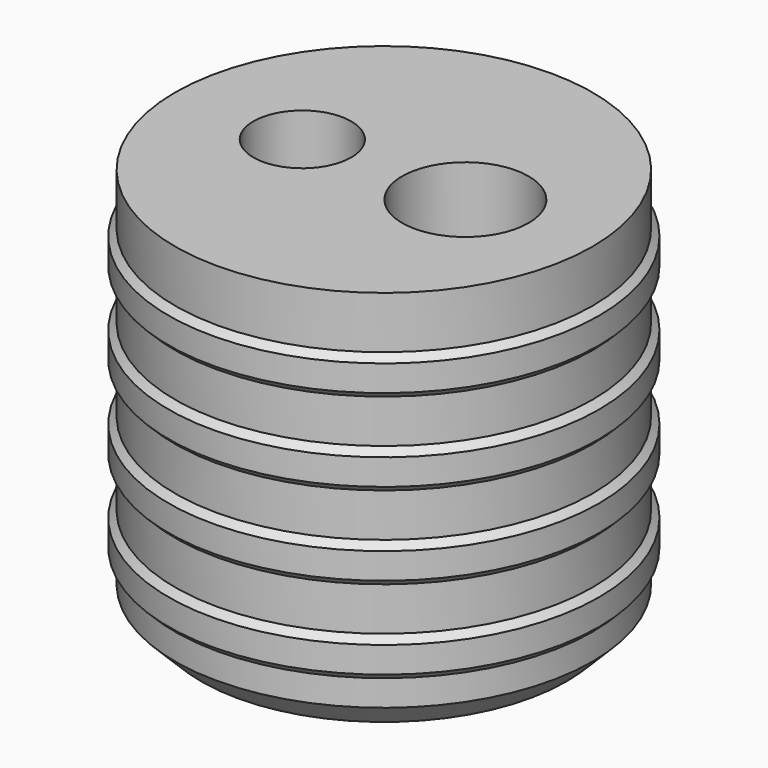
from build123d import *

# Parameters (mm, degrees)
F2_R     = 3.75
F2_R_2   = 4.85
F3_DEPTH = 30.001
F4_SIZE  = 2


with BuildPart() as f1:
    # F0 (on Front) → F1 (revolve)
    with BuildSketch(Plane.XZ):
        Polygon((16, 15), (0, 15), (0, -15), (16, -15), (16, -11), (16.5, -10.5), (16.5, -8.5), (16, -8), (16, -4.666667), (16.5, -4.166667), (16.5, -2.166667), (16, -1.666667), (16, 1.666667), (16.5, 2.166667), (16.5, 4.166667), (16, 4.666667), (16, 8), (16.5, 8.5), (16.5, 10.5), (16, 11), align=None)
    revolve(axis=Axis((0, 0, 0), (0, 0, -1)))

    # F2 (on face) → F3 (cut, through all)
    with BuildSketch(Plane.XY.offset(15)):
        with Locations((-6.25, 0)):
            Circle(F2_R)
        with Locations((6.25, 0)):
            Circle(F2_R_2)
    extrude(amount=-F3_DEPTH, mode=Mode.SUBTRACT)

    # F4
    f4_edges = [f1.edges().sort_by_distance(p)[0] for p in [
        (-16, 0, -15),
    ]]
    chamfer(f4_edges, length=F4_SIZE)


solid = f1.part
